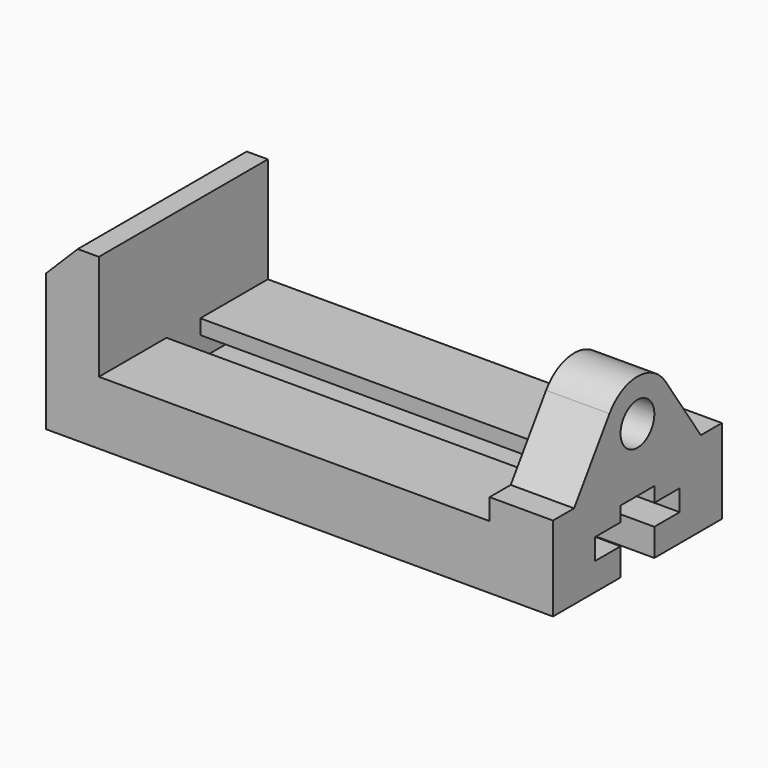
from build123d import *

# Parameters (mm, degrees)
F0_W     = 38.1
F0_H     = 50.8
F1_DEPTH = 127
F2_SIZE2 = 19.05
F2_SIZE  = 19.05
F4_DEPTH = 273.05
F3_R     = 12.7
F5_DEPTH = 38.1
F6_DEPTH = 38.1


with BuildPart() as f1:
    # F0 (on Front) → F1 (new body)
    with BuildSketch(Plane.XZ):
        Polygon((0, 101.6), (0, 0), (304.8, 0), (304.8, 50.8), (266.7, 50.8), (266.7, 38.1), (31.75, 38.1), (31.75, 101.6), align=None)
        with Locations((285.75, 76.2)):
            Rectangle(F0_W, F0_H)
    extrude(amount=-F1_DEPTH)

    # F2
    f2_edges = [f1.edges().sort_by_distance(p)[0] for p in [
        (0, 63.5, 101.6),
    ]]
    chamfer(f2_edges, length=F2_SIZE, length2=F2_SIZE2)

    # F3 (on face) → F4 (cut, through all)
    with BuildSketch(Plane.YZ.offset(304.8)):
        Polygon((50.8, 16.51), (50.8, 0), (63.5, 0), (76.2, 0), (76.2, 16.51), (95.25, 16.51), (95.25, 29.21), (76.2, 29.21), (76.2, 38.1), (63.5, 38.1), (50.8, 38.1), (50.8, 29.21), (31.75, 29.21), (31.75, 16.51), align=None)
    extrude(amount=-F4_DEPTH, mode=Mode.SUBTRACT)

    # F3 (on face) → F5 (cut)
    with BuildSketch(Plane.YZ.offset(304.8)):
        with Locations((63.5, 76.2)):
            Circle(F3_R)
    extrude(amount=-F5_DEPTH, mode=Mode.SUBTRACT)

    # F3 (on face) → F6 (cut)
    with BuildSketch(Plane.YZ.offset(304.8)):
        with BuildLine():
            Line((0, 101.6), (0, 50.8))
            Line((0, 50.8), (15.875, 50.8))
            Line((15.875, 50.8), (42.463992, 90.091243))
            ThreePointArc((42.463992, 90.091243), (63.5, 101.255851), (84.536008, 90.091243))
            Line((84.536008, 90.091243), (111.125, 50.8))
            Line((111.125, 50.8), (127, 50.8))
            Line((127, 50.8), (127, 101.6))
            Line((127, 101.6), (0, 101.6))
        make_face()
    extrude(amount=-F6_DEPTH, mode=Mode.SUBTRACT)


solid = f1.part
